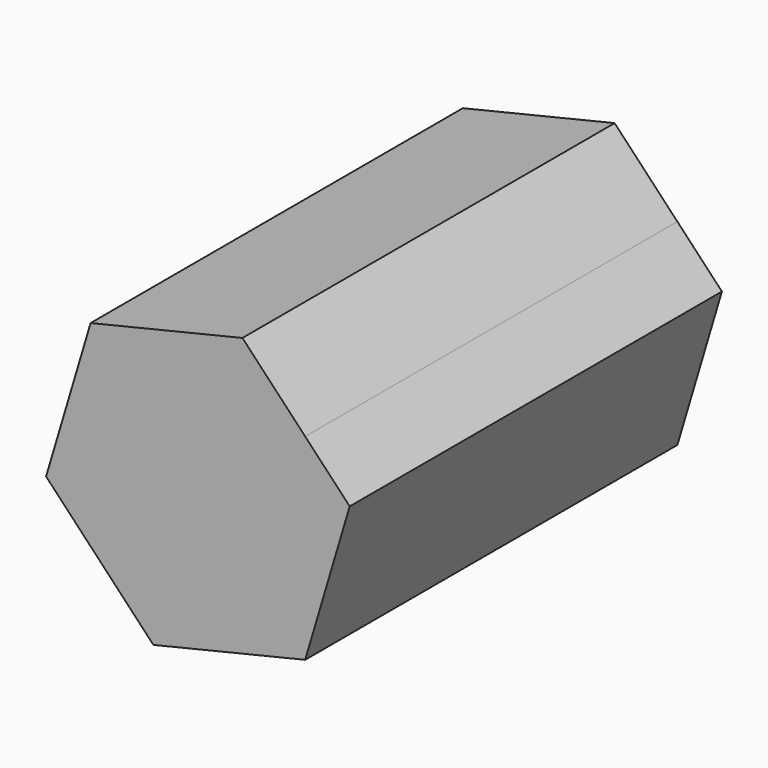
from build123d import *

# Parameters (mm, degrees)
F1_DEPTH = 127


with BuildPart() as f1:
    # F0 (on Front) → F1 (new body)
    with BuildSketch(Plane.XZ):
        Polygon((58.567305, -33.813849), (0, -67.627698), (-12.155358, -60.609799), (17.128294, -91.552522), (58.567305, -81.663497), (70.722663, -40.831748), (58.567305, -27.987726), align=None)
        Polygon((-12.155358, -60.609799), (0, -67.627698), (58.567305, -33.813849), (58.567305, -27.987726), (41.43901, -9.889025), (0, -19.778051), align=None)
    extrude(amount=F1_DEPTH)


solid = f1.part
